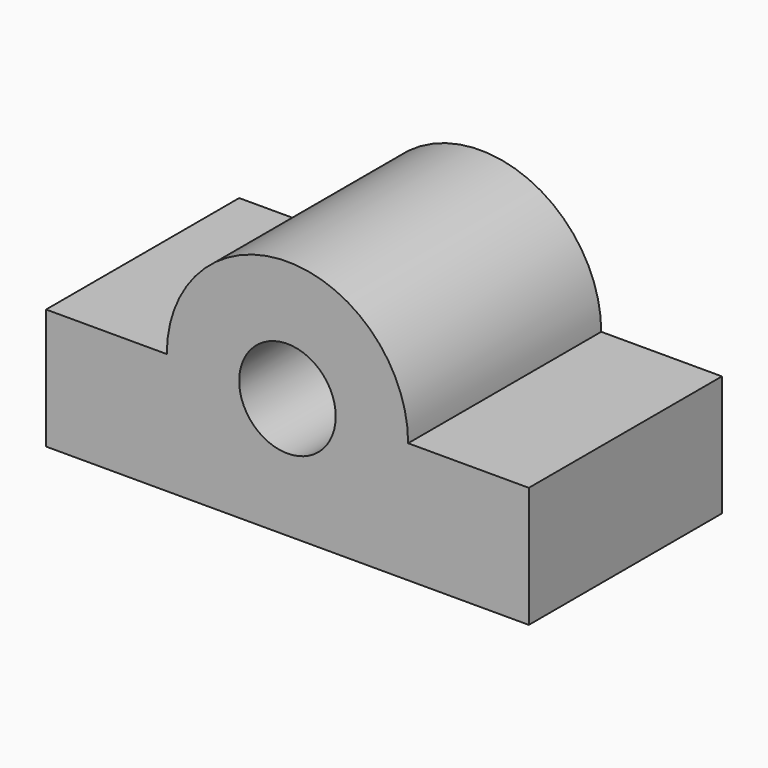
from build123d import *

# Parameters (mm, degrees)
F0_R     = 304.8
F1_DEPTH = 1524


with BuildPart() as f1:
    # F0 (on Front) → F1 (new body)
    with BuildSketch(Plane.XZ):
        with BuildLine():
            ThreePointArc((0, -762), (538.815367, -538.815367), (762, 0))
            ThreePointArc((762, 0), (0, 762), (-762, 0))
            ThreePointArc((-762, 0), (-538.815367, -538.815367), (0, -762))
        make_face()
        Circle(F0_R, mode=Mode.SUBTRACT)
        with BuildLine():
            Line((1524, 0), (762, 0))
            ThreePointArc((762, 0), (538.815367, -538.815367), (0, -762))
            Line((0, -762), (1524, -762))
            Line((1524, -762), (1524, 0))
        make_face()
        with BuildLine():
            ThreePointArc((0, -762), (-538.815367, -538.815367), (-762, 0))
            Line((-762, 0), (-1524, 0))
            Line((-1524, 0), (-1524, -762))
            Line((-1524, -762), (0, -762))
        make_face()
    extrude(amount=F1_DEPTH)


solid = f1.part
